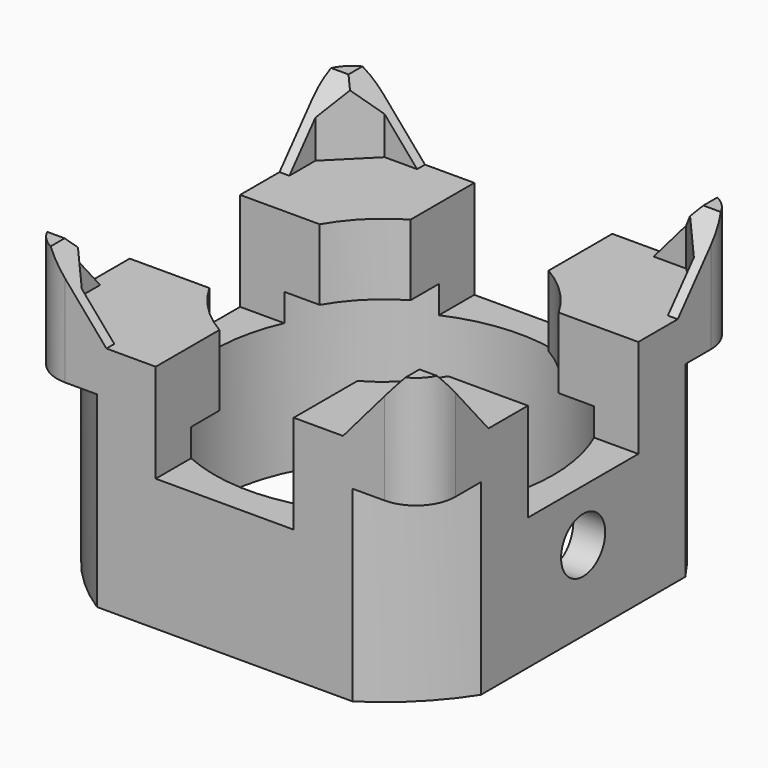
from build123d import *

# Parameters (mm, degrees)
SKETCH_W        = 20.2
SKETCH_H        = 20.2
PAD_DEPTH       = 15.2
POCKET_DEPTH    = 3.5
POCKET001_DEPTH = 20.201
POCKET002_DEPTH = 20.201
SKETCH008_R     = 8.6
POCKET003_DEPTH = 8.1
SKETCH009_W     = 7
SKETCH009_H     = 5
POCKET004_DEPTH = 20.201
SKETCH010_W     = 7
SKETCH010_H     = 5
POCKET005_DEPTH = 20.201
SKETCH011_R     = 20
SKETCH011_R_2   = 12
POCKET006_DEPTH = 9.5
SKETCH012_R     = 7
POCKET007_DEPTH = 7.101
SKETCH013_R     = 1.4
POCKET008_DEPTH = 3
FILLET_R        = 2


with BuildPart() as part:
    # Sketch → Pad (new body)
    with BuildSketch(Plane.XY):
        Rectangle(SKETCH_W, SKETCH_H)
    extrude(amount=PAD_DEPTH)

    # Sketch004 → Pocket (cut)
    with BuildSketch(Plane.XY.offset(15.2)):
        Polygon((9.6, 7.65), (7.65, 9.6), (-7.65, 9.6), (-9.6, 7.65), (-9.6, -7.65), (-7.65, -9.6), (7.65, -9.6), (9.6, -7.65), align=None)
    extrude(amount=-POCKET_DEPTH, mode=Mode.SUBTRACT)

    # Sketch006 → Pocket001 (cut, through all)
    with BuildSketch(Plane(origin=(-10.1, 0, 0), x_dir=(0, -1, 0), z_dir=(-1, 0, 0))):
        Polygon((-9, 15.2), (-6, 11.7), (6, 11.7), (9, 15.2), align=None)
    extrude(amount=-POCKET001_DEPTH, mode=Mode.SUBTRACT)

    # Sketch007 → Pocket002 (cut, through all)
    with BuildSketch(Plane(origin=(0, 10.1, 0), x_dir=(-1, 0, 0), z_dir=(0, 1, 0))):
        Polygon((-9, 15.2), (9, 15.2), (6, 11.7), (-6, 11.7), align=None)
    extrude(amount=-POCKET002_DEPTH, mode=Mode.SUBTRACT)

    # Sketch008 → Pocket003 (cut)
    with BuildSketch(Plane(origin=(0, 0, 0), x_dir=(1, 0, 0), z_dir=(0, 0, -1))):
        Circle(SKETCH008_R)
    extrude(amount=-POCKET003_DEPTH, mode=Mode.SUBTRACT)

    # Sketch009 → Pocket004 (cut, through all)
    with BuildSketch(Plane.YZ.offset(10.1)):
        with Locations((0, 9.2)):
            Rectangle(SKETCH009_W, SKETCH009_H)
    extrude(amount=-POCKET004_DEPTH, mode=Mode.SUBTRACT)

    # Sketch010 → Pocket005 (cut, through all)
    with BuildSketch(Plane.XZ.offset(10.1)):
        with Locations((0, 9.2)):
            Rectangle(SKETCH010_W, SKETCH010_H)
    extrude(amount=-POCKET005_DEPTH, mode=Mode.SUBTRACT)

    # Sketch011 → Pocket006 (cut)
    with BuildSketch(Plane(origin=(0, 0, 0), x_dir=(1, 0, 0), z_dir=(0, 0, -1))):
        Circle(SKETCH011_R)
        Circle(SKETCH011_R_2, mode=Mode.SUBTRACT)
    extrude(amount=-POCKET006_DEPTH, mode=Mode.SUBTRACT)

    # Sketch012 → Pocket007 (cut, through all)
    with BuildSketch(Plane(origin=(0, 0, 8.1), x_dir=(1, 0, 0), z_dir=(0, 0, -1))):
        Circle(SKETCH012_R)
    extrude(amount=-POCKET007_DEPTH, mode=Mode.SUBTRACT)

    # Sketch013 → Pocket008 (cut)
    with BuildSketch(Plane.YZ.offset(10.1)):
        with Locations((0, 4.05)):
            Circle(SKETCH013_R)
    extrude(amount=-POCKET008_DEPTH, mode=Mode.SUBTRACT)

    # Fillet
    fillet_edges = [part.edges().sort_by_distance(p)[0] for p in [
        (10.1, 10.1, 12.35),
        (-10.1, 10.1, 12.35),
        (10.1, -10.1, 12.35),
        (-10.1, -10.1, 12.35),
    ]]
    fillet(fillet_edges, radius=FILLET_R)


solid = part.part
